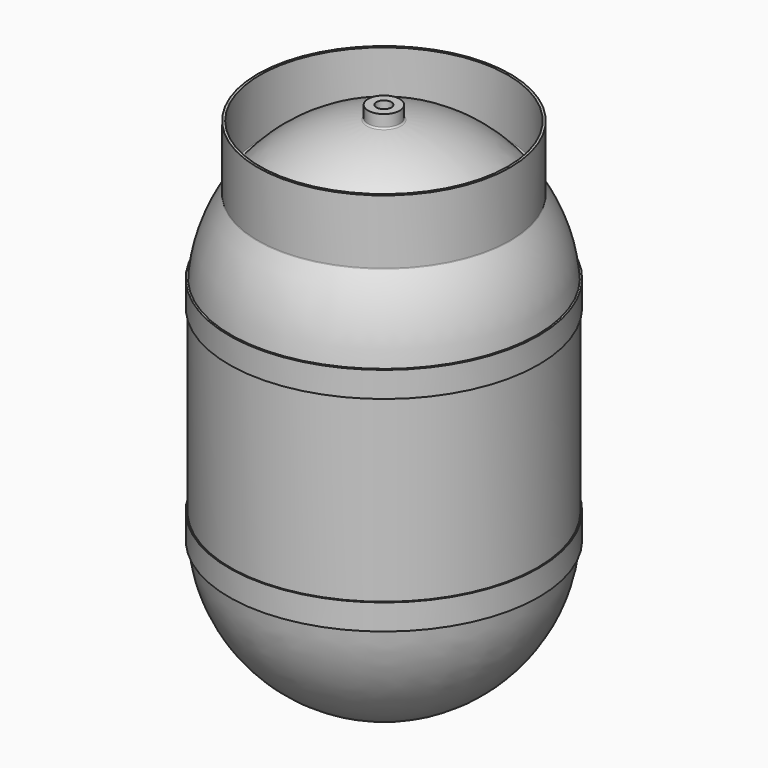
from build123d import *

# Parameters (mm, degrees)
F0_W     = 2.54
F0_H     = 25.4
F2_R     = 14.732
F3_DEPTH = 76.2


with BuildPart() as f1:
    # F0 (on Front) → F1 (revolve)
    with BuildSketch(Plane.XZ):
        with BuildLine():
            Line((0, 532.057591), (0, 508))
            ThreePointArc((0, 508), (14.303257, 507.664213), (28.575, 506.657591))
            ThreePointArc((28.575, 506.657591), (31.394979, 506.378817), (34.212245, 506.073839))
            ThreePointArc((34.212245, 506.073839), (32.20091, 507.113458), (31.393622, 509.228775))
            Line((31.393622, 509.228775), (31.393622, 532.057591))
            Line((31.393622, 532.057591), (0, 532.057591))
        make_face()
        with BuildLine():
            ThreePointArc((300.0375, -203.2), (212.158551, -415.358551), (0, -503.2375))
            Line((0, -503.2375), (0, -508))
            ThreePointArc((0, -508), (206.350575, -427.526726), (303.739823, -228.6))
            ThreePointArc((303.739823, -228.6), (304.53484, -215.911058), (304.8, -203.2))
            Line((304.8, -203.2), (304.8, -177.8))
            Line((304.8, -177.8), (304.8, 0))
            Line((304.8, 0), (304.8, 177.8))
            Line((304.8, 177.8), (304.8, 203.2))
            ThreePointArc((304.8, 203.2), (304.53484, 215.911058), (303.739823, 228.6))
            ThreePointArc((303.739823, 228.6), (287.125361, 305.484246), (251.388705, 375.556488))
            ThreePointArc((251.388705, 375.556488), (251.057435, 376.240948), (250.943611, 376.992792))
            Line((250.943611, 376.992792), (250.943611, 504.168328))
            Line((250.943611, 504.168328), (246.181111, 504.168328))
            Line((246.181111, 504.168328), (246.181111, 390.541626))
            ThreePointArc((246.181111, 390.541626), (244.458775, 388.136834), (241.627548, 388.993348))
            ThreePointArc((241.627548, 388.993348), (149.82943, 468.632066), (34.212245, 506.073839))
            ThreePointArc((34.212245, 506.073839), (31.394979, 506.378817), (28.575, 506.657591))
            ThreePointArc((28.575, 506.657591), (14.303257, 507.664213), (0, 508))
            Line((0, 508), (0, 503.2375))
            ThreePointArc((0, 503.2375), (137.523597, 469.864137), (244.453518, 377.168328))
            ThreePointArc((244.453518, 377.168328), (285.803887, 294.516151), (300.0375, 203.2))
            Line((300.0375, 203.2), (300.0375, 0))
            Line((300.0375, 0), (300.0375, -203.2))
        make_face()
        with Locations((306.07, 190.5)):
            Rectangle(F0_W, F0_H)
        with BuildLine():
            ThreePointArc((303.739823, 228.6), (304.53484, 215.911058), (304.8, 203.2))
            Line((304.8, 203.2), (307.34, 203.2))
            Line((307.34, 203.2), (307.34, 228.6))
            Line((307.34, 228.6), (303.739823, 228.6))
        make_face()
        with BuildLine():
            ThreePointArc((304.8, -203.2), (304.53484, -215.911058), (303.739823, -228.6))
            Line((303.739823, -228.6), (307.34, -228.6))
            Line((307.34, -228.6), (307.34, -203.2))
            Line((307.34, -203.2), (304.8, -203.2))
        make_face()
        with Locations((306.07, -190.5)):
            Rectangle(F0_W, F0_H)
    revolve(axis=Axis((0, 0, 355.6), (0, 0, -1)))

    # F2 (on face) → F3 (cut)
    with BuildSketch(Plane.XY.offset(532.057591)):
        Circle(F2_R)
    extrude(amount=-F3_DEPTH, mode=Mode.SUBTRACT)


solid = f1.part
